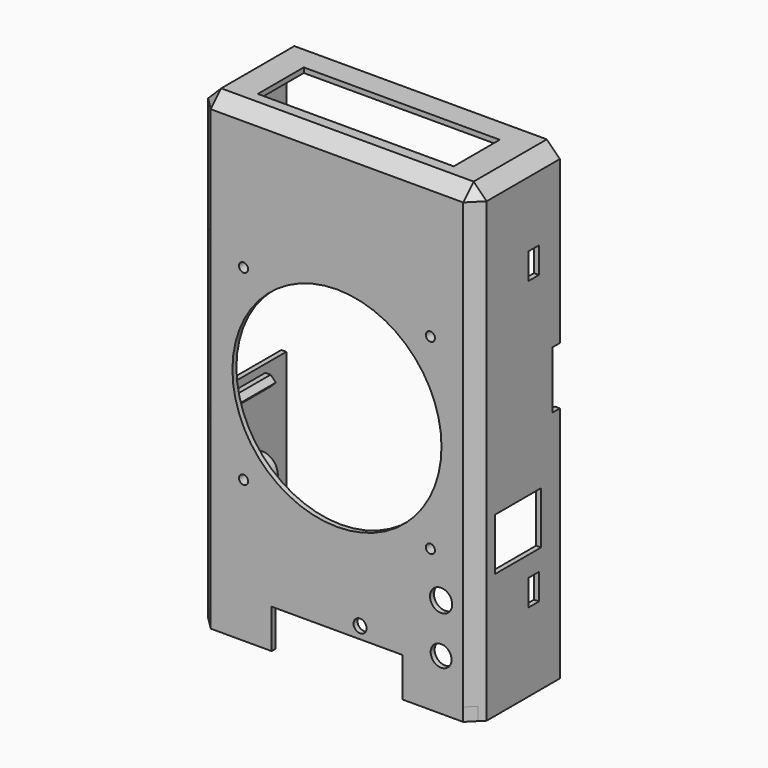
from build123d import *

# Parameters (mm, degrees)
SKETCH_W        = 106.6
SKETCH_H        = 40
PAD_DEPTH       = 180
SKETCH001_W     = 102.8
SKETCH001_H     = 176.2
POCKET_DEPTH    = 38.1
SKETCH002_W     = 102.8
SKETCH002_H     = 1.9
POCKET001_DEPTH = 38.1
SKETCH003_W     = 50
SKETCH003_H     = 15
POCKET002_DEPTH = 5
SKETCH004_W     = 22
SKETCH004_H     = 20
POCKET003_DEPTH = 5
SKETCH005_W     = 75
SKETCH005_H     = 22
POCKET004_DEPTH = 5
SKETCH006_R     = 4
SKETCH006_R_2   = 4.25
POCKET005_DEPTH = 5
CHAMFER_SIZE    = 5
CHAMFER001_SIZE = 5
SKETCH007_W     = 5
SKETCH007_H     = 10
POCKET006_DEPTH = 5
SKETCH008_W     = 5
SKETCH008_H     = 10
POCKET007_DEPTH = 5
SKETCH009_W     = 19.8
SKETCH009_H     = 10
POCKET008_DEPTH = 5
SKETCH010_W     = 40
SKETCH010_H     = 5
PAD001_DEPTH    = 5
CHAMFER002_SIZE = 3.099
CHAMFER003_SIZE = 3
SKETCH011_W     = 40
SKETCH011_H     = 5
PAD002_DEPTH    = 5
CHAMFER004_SIZE = 3.099
CHAMFER005_SIZE = 3
SKETCH012_W     = 3.5
SKETCH012_H     = 22
POCKET009_DEPTH = 5
SKETCH013_W     = 3.5
SKETCH013_H     = 22
POCKET010_DEPTH = 5
SKETCH014_W     = 29
SKETCH014_H     = 50
POCKET011_DEPTH = 5
SKETCH015_W     = 102.8
SKETCH015_H     = 12
POCKET012_DEPTH = 5
SKETCH016_W     = 10
SKETCH016_H     = 12.5
POCKET013_DEPTH = 5
SKETCH017_W     = 40
SKETCH017_H     = 4
PAD003_DEPTH    = 4
CHAMFER006_SIZE = 3.099
CHAMFER007_SIZE = 1.99
SKETCH018_R     = 2.5
POCKET014_DEPTH = 5
SKETCH019_W     = 10
SKETCH019_H     = 8
POCKET015_DEPTH = 5
SKETCH020_R     = 40
POCKET016_DEPTH = 5
SKETCH021_R     = 6
PAD004_DEPTH    = 7
SKETCH022_R     = 1.75
POCKET017_DEPTH = 9
SKETCH023_R     = 2.75
POCKET018_DEPTH = 5
CHAMFER008_SIZE = 0.5
FILLET_R        = 4
SKETCH024_W     = 5
SKETCH024_H     = 6
PAD005_DEPTH    = 8
SKETCH025_W     = 2.5
SKETCH025_H     = 6
PAD006_DEPTH    = 2.5
CHAMFER009_SIZE = 2
FILLET001_R     = 1.55
FILLET002_R     = 3
FILLET003_R     = 2


with BuildPart() as part:
    # Sketch → Pad (new body)
    with BuildSketch(Plane.XY):
        Rectangle(SKETCH_W, SKETCH_H)
    extrude(amount=PAD_DEPTH)

    # Sketch001 (on Face1 of Pad) → Pocket (cut)
    with BuildSketch(Plane(origin=(0, 20, 0), x_dir=(-1, 0, 0), z_dir=(0, 1, 0))):
        with Locations((0, 90)):
            Rectangle(SKETCH001_W, SKETCH001_H)
    extrude(amount=-POCKET_DEPTH, mode=Mode.SUBTRACT)

    # Sketch002 (on Face1 of Pocket) → Pocket001 (cut)
    with BuildSketch(Plane(origin=(0, 20, 0), x_dir=(-1, 0, 0), z_dir=(0, 1, 0))):
        with Locations((0, 0.95)):
            Rectangle(SKETCH002_W, SKETCH002_H)
    extrude(amount=-POCKET001_DEPTH, mode=Mode.SUBTRACT)

    # Sketch003 (on Face11 of Pocket001) → Pocket002 (cut)
    with BuildSketch(Plane.XZ.offset(20)):
        with Locations((0, 7.5)):
            Rectangle(SKETCH003_W, SKETCH003_H)
    extrude(amount=-POCKET002_DEPTH, mode=Mode.SUBTRACT)

    # Sketch004 (on Face9 of Pocket002) → Pocket003 (cut)
    with BuildSketch(Plane.YZ.offset(53.3)):
        with Locations((0, 57.78728)):
            Rectangle(SKETCH004_W, SKETCH004_H)
    extrude(amount=-POCKET003_DEPTH, mode=Mode.SUBTRACT)

    # Sketch005 (on Face10 of Pocket003) → Pocket004 (cut)
    with BuildSketch(Plane.XY.offset(180)):
        Rectangle(SKETCH005_W, SKETCH005_H)
    extrude(amount=-POCKET004_DEPTH, mode=Mode.SUBTRACT)

    # Sketch006 (on Face12 of Pocket004) → Pocket005 (cut)
    with BuildSketch(Plane.XZ.offset(20)):
        with Locations((39.85, 19.5)):
            Circle(SKETCH006_R)
        with Locations((39.85, 38.2)):
            Circle(SKETCH006_R_2)
    extrude(amount=-POCKET005_DEPTH, mode=Mode.SUBTRACT)

    # Chamfer
    chamfer_edges = [part.edges().sort_by_distance(p)[0] for p in [
        (-51.4, -18.1, 90),
        (-51.4, 0.95, 178.1),
        (0, -18.1, 178.1),
        (51.4, -18.1, 90),
        (51.4, 0.95, 178.1),
    ]]
    chamfer(chamfer_edges, length=CHAMFER_SIZE)

    # Chamfer001
    chamfer001_edges = [part.edges().sort_by_distance(p)[0] for p in [
        (53.3, -20, 90),
        (-53.3, -20, 90),
        (0, -20, 180),
        (53.3, 0, 180),
        (-53.3, 0, 180),
    ]]
    chamfer(chamfer001_edges, length=CHAMFER001_SIZE)

    # Sketch007 (on Face9 of Chamfer001) → Pocket006 (cut)
    with BuildSketch(Plane.YZ.offset(53.3)):
        with Locations((7.5, 145)):
            Rectangle(SKETCH007_W, SKETCH007_H)
        with Locations((7.5, 35)):
            Rectangle(SKETCH007_W, SKETCH007_H)
    extrude(amount=-POCKET006_DEPTH, mode=Mode.SUBTRACT)

    # Sketch008 (on Face2 of Pocket006) → Pocket007 (cut)
    with BuildSketch(Plane(origin=(-53.3, 0, 0), x_dir=(0, -1, 0), z_dir=(-1, 0, 0))):
        with Locations((-7.5, 145)):
            Rectangle(SKETCH008_W, SKETCH008_H)
        with Locations((-7.5, 35)):
            Rectangle(SKETCH008_W, SKETCH008_H)
    extrude(amount=-POCKET007_DEPTH, mode=Mode.SUBTRACT)

    # Sketch009 (on Face2 of Pocket007) → Pocket008 (cut)
    with BuildSketch(Plane(origin=(-53.3, 0, 0), x_dir=(0, -1, 0), z_dir=(-1, 0, 0))):
        with Locations((-10.1, 17.5)):
            Rectangle(SKETCH009_W, SKETCH009_H)
    extrude(amount=-POCKET008_DEPTH, mode=Mode.SUBTRACT)

    # Sketch010 (on Face4 of Pocket008) → Pad001 (join)
    with BuildSketch(Plane.YZ.offset(-51.4)):
        with Locations((0, 2.5)):
            Rectangle(SKETCH010_W, SKETCH010_H)
    extrude(amount=PAD001_DEPTH)

    # Chamfer002
    chamfer002_edges = [part.edges().sort_by_distance(p)[0] for p in [
        (-51.4, -20, 2.5),
    ]]
    chamfer(chamfer002_edges, length=CHAMFER002_SIZE)

    # Chamfer003
    chamfer003_edges = [part.edges().sort_by_distance(p)[0] for p in [
        (-46.4, 0.95, 5),
    ]]
    chamfer(chamfer003_edges, length=CHAMFER003_SIZE)

    # Sketch011 (on Face27 of Chamfer003) → Pad002 (join)
    with BuildSketch(Plane(origin=(51.4, 0, 0), x_dir=(0, -1, 0), z_dir=(-1, 0, 0))):
        with Locations((0, 2.5)):
            Rectangle(SKETCH011_W, SKETCH011_H)
    extrude(amount=PAD002_DEPTH)

    # Chamfer004
    chamfer004_edges = [part.edges().sort_by_distance(p)[0] for p in [
        (51.4, -20, 2.5),
    ]]
    chamfer(chamfer004_edges, length=CHAMFER004_SIZE)

    # Chamfer005
    chamfer005_edges = [part.edges().sort_by_distance(p)[0] for p in [
        (46.4, 0.95, 5),
    ]]
    chamfer(chamfer005_edges, length=CHAMFER005_SIZE)

    # Sketch012 (on Face15 of Chamfer005) → Pocket009 (cut)
    with BuildSketch(Plane.YZ.offset(53.3)):
        with Locations((18.25, 102)):
            Rectangle(SKETCH012_W, SKETCH012_H)
    extrude(amount=-POCKET009_DEPTH, mode=Mode.SUBTRACT)

    # Sketch013 (on Face52 of Pocket009) → Pocket010 (cut)
    with BuildSketch(Plane(origin=(-53.3, 0, 0), x_dir=(0, -1, 0), z_dir=(-1, 0, 0))):
        with Locations((-18.25, 102)):
            Rectangle(SKETCH013_W, SKETCH013_H)
    extrude(amount=-POCKET010_DEPTH, mode=Mode.SUBTRACT)

    # Sketch014 (on Face52 of Pocket010) → Pocket011 (cut)
    with BuildSketch(Plane(origin=(-53.3, 0, 0), x_dir=(0, -1, 0), z_dir=(-1, 0, 0))):
        with Locations((-5.5, 101)):
            Rectangle(SKETCH014_W, SKETCH014_H)
    extrude(amount=-POCKET011_DEPTH, mode=Mode.SUBTRACT)

    # Sketch015 (on Face6 of Pocket011) → Pocket012 (cut)
    with BuildSketch(Plane(origin=(0, 0, 0), x_dir=(1, 0, 0), z_dir=(0, 0, -1))):
        with Locations((0, -14)):
            Rectangle(SKETCH015_W, SKETCH015_H)
    extrude(amount=-POCKET012_DEPTH, mode=Mode.SUBTRACT)

    # Sketch016 (on Face37 of Pocket012) → Pocket013 (cut)
    with BuildSketch(Plane(origin=(-53.3, 0, 0), x_dir=(0, -1, 0), z_dir=(-1, 0, 0))):
        with Locations((-15, 6.25)):
            Rectangle(SKETCH016_W, SKETCH016_H)
    extrude(amount=-POCKET013_DEPTH, mode=Mode.SUBTRACT)

    # Sketch017 (on Face32 of Pocket013) → Pad003 (join)
    with BuildSketch(Plane.YZ.offset(-51.4)):
        with Locations((0, 71)):
            Rectangle(SKETCH017_W, SKETCH017_H)
        with Locations((0, 131)):
            Rectangle(SKETCH017_W, SKETCH017_H)
    extrude(amount=PAD003_DEPTH)

    # Chamfer006
    chamfer006_edges = [part.edges().sort_by_distance(p)[0] for p in [
        (-51.4, -20, 131),
        (-51.4, -20, 71),
    ]]
    chamfer(chamfer006_edges, length=CHAMFER006_SIZE)

    # Chamfer007
    chamfer007_edges = [part.edges().sort_by_distance(p)[0] for p in [
        (-47.4, 1.45, 129),
        (-47.4, 1.45, 133),
        (-47.4, 1.45, 73),
        (-47.4, 1.45, 69),
    ]]
    chamfer(chamfer007_edges, length=CHAMFER007_SIZE)

    # Sketch018 (on Face66 of Chamfer007) → Pocket014 (cut)
    with BuildSketch(Plane.XZ.offset(20)):
        with Locations((8.85, 19.5)):
            Circle(SKETCH018_R)
    extrude(amount=-POCKET014_DEPTH, mode=Mode.SUBTRACT)

    # Sketch019 (on Face8 of Pocket014) → Pocket015 (cut)
    with BuildSketch(Plane.YZ.offset(-51.4)):
        with Locations((15, 72)):
            Rectangle(SKETCH019_W, SKETCH019_H)
    extrude(amount=POCKET015_DEPTH, mode=Mode.SUBTRACT)

    # Sketch020 (on Face58 of Pocket015) → Pocket016 (cut)
    with BuildSketch(Plane.XZ.offset(20)):
        with Locations((0, 90)):
            Circle(SKETCH020_R)
    extrude(amount=-POCKET016_DEPTH, mode=Mode.SUBTRACT)

    # Sketch021 (on Face39 of Pocket016) → Pad004 (join)
    with BuildSketch(Plane(origin=(0, -18.1, 0), x_dir=(-1, 0, 0), z_dir=(0, 1, 0))):
        with Locations((-35.75, 125.75)):
            Circle(SKETCH021_R)
        with Locations((35.75, 125.75)):
            Circle(SKETCH021_R)
        with Locations((35.75, 54.25)):
            Circle(SKETCH021_R)
        with Locations((-35.75, 54.25)):
            Circle(SKETCH021_R)
    extrude(amount=PAD004_DEPTH)

    # Sketch022 (on Face129 of Pad004) → Pocket017 (cut)
    with BuildSketch(Plane(origin=(0, -11.1, 0), x_dir=(-1, 0, 0), z_dir=(0, 1, 0))):
        with Locations((-35.75, 54.25)):
            Circle(SKETCH022_R)
        with Locations((-35.75, 125.75)):
            Circle(SKETCH022_R)
        with Locations((35.75, 125.75)):
            Circle(SKETCH022_R)
        with Locations((35.75, 54.25)):
            Circle(SKETCH022_R)
    extrude(amount=-POCKET017_DEPTH, mode=Mode.SUBTRACT)

    # Sketch023 (on Face132 of Pocket017) → Pocket018 (cut)
    with BuildSketch(Plane(origin=(0, -11.1, 0), x_dir=(-1, 0, 0), z_dir=(0, 1, 0))):
        with Locations((-35.75, 54.25)):
            Circle(SKETCH023_R)
        with Locations((35.75, 54.25)):
            Circle(SKETCH023_R)
        with Locations((35.75, 125.75)):
            Circle(SKETCH023_R)
        with Locations((-35.75, 125.75)):
            Circle(SKETCH023_R)
    extrude(amount=-POCKET018_DEPTH, mode=Mode.SUBTRACT)

    # Chamfer008
    chamfer008_edges = [part.edges().sort_by_distance(p)[0] for p in [
        (-33, -11.1, 54.25),
        (-33, -11.1, 125.75),
        (38.5, -11.1, 125.75),
        (38.5, -11.1, 54.25),
    ]]
    chamfer(chamfer008_edges, length=CHAMFER008_SIZE)

    # Fillet
    fillet_edges = [part.edges().sort_by_distance(p)[0] for p in [
        (41.75, -18.1, 54.25),
        (-29.75, -18.1, 54.25),
        (-29.75, -18.1, 125.75),
        (41.75, -18.1, 125.75),
    ]]
    fillet(fillet_edges, radius=FILLET_R)

    # Sketch024 (on Face4 of Fillet) → Pad005 (join)
    with BuildSketch(Plane(origin=(0, -18.1, 0), x_dir=(-1, 0, 0), z_dir=(0, 1, 0))):
        with Locations((17.5046, 43.051194)):
            Rectangle(SKETCH024_W, SKETCH024_H)
    extrude(amount=PAD005_DEPTH)

    # Sketch025 (on Face18 of Pad005) → Pad006 (join)
    with BuildSketch(Plane(origin=(-20.0046, 0, 0), x_dir=(0, -1, 0), z_dir=(-1, 0, 0))):
        with Locations((11.35, 43.051194)):
            Rectangle(SKETCH025_W, SKETCH025_H)
    extrude(amount=PAD006_DEPTH)

    # Chamfer009
    chamfer009_edges = [part.edges().sort_by_distance(p)[0] for p in [
        (-22.5046, -12.6, 43.051194),
    ]]
    chamfer(chamfer009_edges, length=CHAMFER009_SIZE)

    # Fillet001
    fillet001_edges = [part.edges().sort_by_distance(p)[0] for p in [
        (-15.0046, -14.1, 40.051194),
        (-20.0046, -15.35, 46.051194),
        (-15.0046, -14.1, 46.051194),
    ]]
    fillet(fillet001_edges, radius=FILLET001_R)

    # Fillet002
    fillet002_edges = [part.edges().sort_by_distance(p)[0] for p in [
        (-17.5046, -18.1, 46.051194),
    ]]
    fillet(fillet002_edges, radius=FILLET002_R)

    # Fillet003
    fillet003_edges = [part.edges().sort_by_distance(p)[0] for p in [
        (-18.2796, -10.1, 46.051194),
    ]]
    fillet(fillet003_edges, radius=FILLET003_R)


solid = part.part
